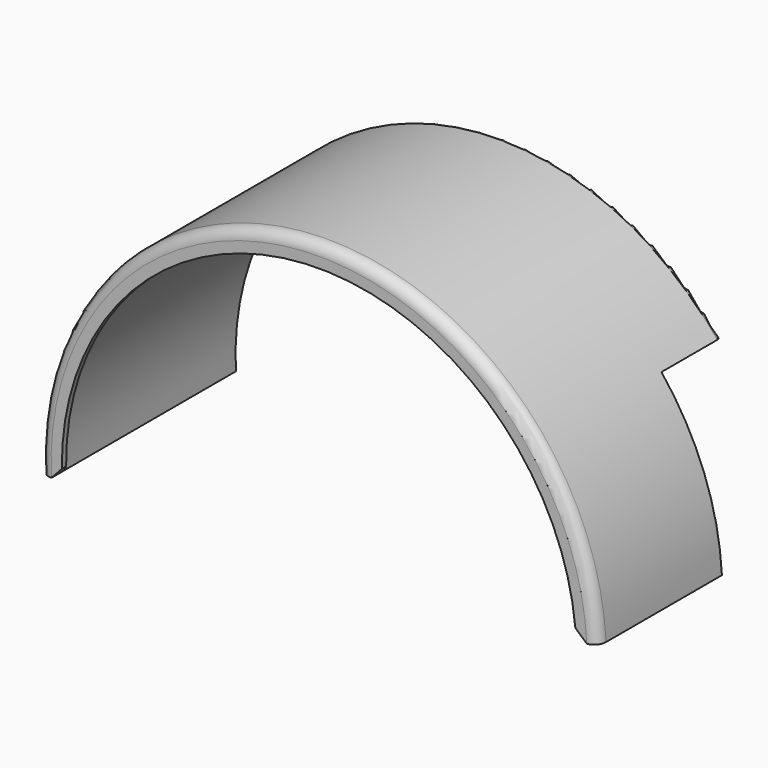
from build123d import *

# Parameters (mm, degrees)
BOX334_W                = 59
BOX334_H                = 20
BOX334_DEPTH            = 32
BOX334_PLACEMENT_ANGLE  = 3
CYLINDER470_R           = 1.6
CYLINDER470_DEPTH       = 9
CYLINDER468_R           = 1.6
CYLINDER468_DEPTH       = 9
BOX333_W                = 128
BOX333_H                = 3
BOX333_DEPTH            = 35
BOX333_PLACEMENT_ANGLE  = 3
CYLINDER477_W           = 52
CYLINDER477_H           = 3
CYLINDER477_ANGLE       = 180
CYLINDER477_ROLL_ANGLE  = 90
CYLINDER477_PITCH_ANGLE = -3
CYLINDER479_W           = 48
CYLINDER479_H           = 2
CYLINDER479_ANGLE       = 180
CYLINDER476_W           = 50
CYLINDER476_H           = 42
CYLINDER476_ANGLE       = 180
CYLINDER478_W           = 52
CYLINDER478_H           = 43
CYLINDER478_ANGLE       = 180
CUT334_PLACEMENT_ANGLE  = 3
FILLET120_R             = 2
FILLET121_R             = 1
CHAMFER045_SIZE         = 1.99
CHAMFER048_SIZE         = 1.99


with BuildPart() as cube405:
    # Box334 → Box334 (new body)
    with BuildSketch(Plane.XY):
        with Locations((29.5, 10)):
            Rectangle(BOX334_W, BOX334_H)
    extrude(amount=BOX334_DEPTH)


with BuildPart() as cube405_1:
    # Box334 placement: moved
    add(cube405.part.moved(Location((473, -33, -34))).rotate(Axis((473, -33, -34), (0, -1, 0)), BOX334_PLACEMENT_ANGLE))


with BuildPart() as cylinder470:
    # Cylinder470 → Cylinder470 (new body)
    with BuildSketch(Plane(origin=(441, -17, 10), x_dir=(1, 0, 0), z_dir=(0, -1, 0))):
        Circle(CYLINDER470_R)
    extrude(amount=CYLINDER470_DEPTH)


with BuildPart() as fusion427:
    # Cylinder468 → Cylinder468 (new body)
    with BuildSketch(Plane(origin=(459, -17, 10), x_dir=(1, 0, 0), z_dir=(0, -1, 0))):
        Circle(CYLINDER468_R)
    extrude(amount=CYLINDER468_DEPTH)

    # Fusion427: union Cylinder470
    add(cylinder470.part)


with BuildPart() as cube404:
    # Box333 → Box333 (new body)
    with BuildSketch(Plane.XY):
        with Locations((64, 1.5)):
            Rectangle(BOX333_W, BOX333_H)
    extrude(amount=BOX333_DEPTH)


with BuildPart() as cube404_1:
    # Box333 placement: moved
    add(cube404.part.moved(Location((382, -9, -40.8))).rotate(Axis((382, -9, -40.8), (0, -1, 0)), BOX333_PLACEMENT_ANGLE))


with BuildPart() as cut335:
    # Cylinder477 → Cylinder477 (revolve)
    with BuildSketch(Plane.XZ):
        with Locations((26, 1.5)):
            Rectangle(CYLINDER477_W, CYLINDER477_H)
    revolve(axis=Axis((0, 0, 0), (0, 0, 1)), revolution_arc=CYLINDER477_ANGLE)


with BuildPart() as cut335_1:
    # Cylinder477 roll: moved
    add(cut335.part.rotate(Axis((0, 0, 0), (1, 0, 0)), CYLINDER477_ROLL_ANGLE))


with BuildPart() as cut335_2:
    # Cylinder477 pitch: moved
    add(cut335_1.part.rotate(Axis((0, 0, 0), (0, 1, 0)), CYLINDER477_PITCH_ANGLE))


with BuildPart() as cut335_3:
    # Cylinder477 placement: moved
    add(cut335_2.part.moved(Location((448.581401, -6, -35.39126))))

    # Cut335: cut Cube404
    add(cube404_1.part, mode=Mode.SUBTRACT)


with BuildPart() as cut335_4:
    # Cut335 placement: moved
    add(cut335_3.part.moved(Location((105.48, -13, 6.5))))


with BuildPart() as cylinder582:
    # Cylinder479 → Cylinder479 (revolve)
    with BuildSketch(Plane(origin=(554, -60, -28), x_dir=(1, 0, 0), z_dir=(0, 0, -1))):
        with Locations((24, 1)):
            Rectangle(CYLINDER479_W, CYLINDER479_H)
    revolve(axis=Axis((554, -60, -28), (0, -1, 0)), revolution_arc=CYLINDER479_ANGLE)


with BuildPart() as fusion432:
    # Cylinder476 → Cylinder476 (revolve)
    with BuildSketch(Plane(origin=(554, -19, -28), x_dir=(1, 0, 0), z_dir=(0, 0, -1))):
        with Locations((25, 21)):
            Rectangle(CYLINDER476_W, CYLINDER476_H)
    revolve(axis=Axis((554, -19, -28), (0, -1, 0)), revolution_arc=CYLINDER476_ANGLE)

    # Fusion432: union Cylinder582
    add(cylinder582.part)


with BuildPart() as fender_front_left:
    # Cylinder478 → Cylinder478 (revolve)
    with BuildSketch(Plane(origin=(554, -19, -28), x_dir=(1, 0, 0), z_dir=(0, 0, -1))):
        with Locations((26, 21.5)):
            Rectangle(CYLINDER478_W, CYLINDER478_H)
    revolve(axis=Axis((554, -19, -28), (0, -1, 0)), revolution_arc=CYLINDER478_ANGLE)

    # Cut334: cut Fusion432
    add(fusion432.part, mode=Mode.SUBTRACT)


with BuildPart() as fender_front_left_1:
    # Cut334 placement: moved
    add(fender_front_left.part.moved(Location((-0.706169, 0, -29.032493))).rotate(Axis((-0.706169, 0, -29.032493), (0, -1, 0)), CUT334_PLACEMENT_ANGLE))

    # Fusion431: union Cut335
    add(cut335_4.part)


with BuildPart() as fender_front_left_2:
    # Fusion431 placement: moved
    add(fender_front_left_1.part.moved(Location((-105, 0, -5.5))))

    # Cut337: cut Fusion427
    add(fusion427.part, mode=Mode.SUBTRACT)

    # Cut339: cut Cube405
    add(cube405_1.part, mode=Mode.SUBTRACT)

    # Fillet120
    fillet120_edges = [fender_front_left_2.edges().sort_by_distance(p)[0] for p in [
        (446.27853, -62, 18.428736),
    ]]
    fillet(fillet120_edges, radius=FILLET120_R)

    # Fillet121
    fillet121_edges = [fender_front_left_2.edges().sort_by_distance(p)[0] for p in [
        (430.549251, -19, 15.116559),
    ]]
    fillet(fillet121_edges, radius=FILLET121_R)

    # Chamfer045
    chamfer045_edges = [fender_front_left_2.edges().sort_by_distance(p)[0] for p in [
        (446.383202, -61, 16.431477),
    ]]
    chamfer(chamfer045_edges, length=CHAMFER045_SIZE)

    # Chamfer048
    chamfer048_edges = [fender_front_left_2.edges().sort_by_distance(p)[0] for p in [
        (401.065782, -61.5, -36.012126),
        (496.934218, -61.5, -30.987874),
    ]]
    chamfer(chamfer048_edges, length=CHAMFER048_SIZE)


solid = fender_front_left_2.part
